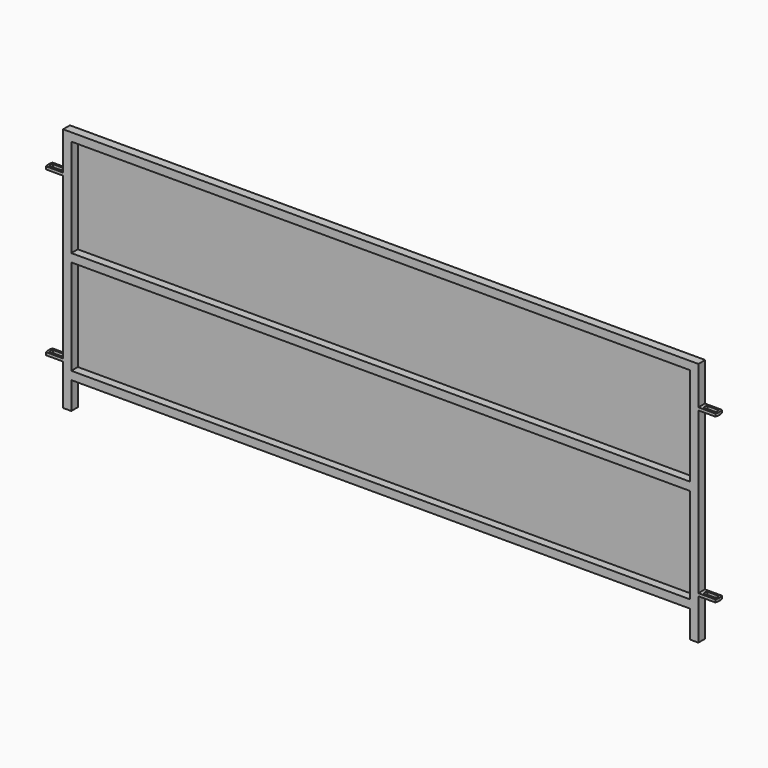
from build123d import *

# Parameters (mm, degrees)
F0_W      = 30
F0_H      = 30
F1_DEPTH  = 900
F2_W      = 30
F2_H      = 30
F3_DEPTH  = 2300
F4_W      = 30
F4_H      = 10
F5_DEPTH  = 65
F6_W      = 40
F6_H      = 16
F7_DEPTH  = 760.001
F9_W      = 1.5
F9_H      = 800
F10_DEPTH = 2330


with BuildPart() as f1:
    # F0 (on Top) → F1 (new body)
    with BuildSketch(Plane.XY):
        with Locations((-1150, 0)):
            Rectangle(F0_W, F0_H)
        with Locations((1150, 0)):
            Rectangle(F0_W, F0_H)
    extrude(amount=-F1_DEPTH)

    # F2 (on face) → F3 (join, through all)
    with BuildSketch(Plane.YZ.offset(1165)):
        with Locations((0, -15)):
            Rectangle(F2_W, F2_H)
        with Locations((0, -405)):
            Rectangle(F2_W, F2_H)
        with Locations((0, -785)):
            Rectangle(F2_W, F2_H)
    extrude(amount=-F3_DEPTH)

    # F8: F5 across plane


with BuildPart() as f5:
    # F4 (on face) → F5 (new body)
    with BuildSketch(Plane.YZ.offset(1165)):
        with Locations((0, -145)):
            Rectangle(F4_W, F4_H)
        with Locations((0, -745)):
            Rectangle(F4_W, F4_H)
    extrude(amount=F5_DEPTH)

    # F6 (on face) → F7 (cut, through all)
    with BuildSketch(Plane.XY.offset(-140)):
        with BuildLine():
            Line((1230, 15), (1227.360249, 15))
            ThreePointArc((1227.360249, 15), (1229.33503, 7.615252), (1230, 0))
            Line((1230, 0), (1230, 15))
        make_face()
        with BuildLine():
            ThreePointArc((1230, 0), (1229.33503, -7.615253), (1227.360249, -15))
            Line((1227.360249, -15), (1230, -15))
            Line((1230, -15), (1230, 0))
        make_face()
        with Locations((1200, 0)):
            Rectangle(F6_W, F6_H)
        with BuildLine():
            Line((1220, 8), (1220, -8))
            ThreePointArc((1220, -8), (1223.450166, 0), (1220, 8))
        make_face()
        with BuildLine():
            ThreePointArc((1180, 8), (1176.549834, 0), (1180, -8))
            Line((1180, -8), (1180, 8))
        make_face()
    extrude(amount=-F7_DEPTH, mode=Mode.SUBTRACT)


with BuildPart() as f1_1:
    add(f1.part)
    add(f5.part.mirror(Plane.YZ))


    add(f5.part)  # F10 merges F5
    # F9 (on face) → F10 (join, through all)
    with BuildSketch(Plane.YZ.offset(1165)):
        with Locations((15.75, -400)):
            Rectangle(F9_W, F9_H)
    extrude(amount=-F10_DEPTH)


solid = f1_1.part
